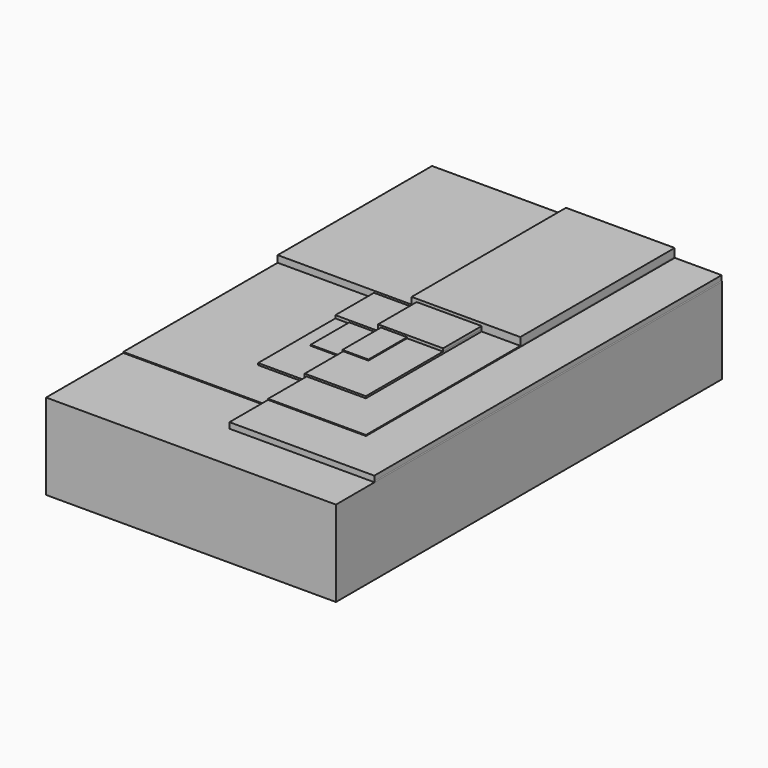
from build123d import *

# Parameters (mm, degrees)
F1_DEPTH = 254
F2_DEPTH = 228.6
F3_DEPTH = 203.2
F4_DEPTH = 177.8
F5_DEPTH = 152.4
F6_DEPTH = 127
F7_DEPTH = 101.6


with BuildPart() as f1:
    # F0 (on Front) → F1 (new body)
    with BuildSketch(Plane.XZ):
        Polygon((-76.438032, 25.036076), (-76.438032, -19.613271), (76.173723, -19.613271), (76.173723, 23.512076), (76.173723, 25.544076), (-0.200935, 25.544076), (-76.438032, 25.544076), align=None)
    extrude(amount=F1_DEPTH)


with BuildPart() as f2:
    # F0 (on Front) → F2 (new body)
    with BuildSketch(Plane.XZ):
        Polygon((-0.200935, 26.052076), (76.036163, 26.052076), (76.036163, 28.592076), (69.713205, 28.592076), (51.336631, 28.592076), (-0.200935, 28.592076), align=None)
        Polygon((-0.200935, 25.544076), (76.173723, 25.544076), (76.036163, 26.052076), (-0.200935, 26.052076), align=None)
    extrude(amount=F2_DEPTH)


with BuildPart() as f3:
    # F0 (on Front) → F3 (new body)
    with BuildSketch(Plane.XZ):
        Polygon((-76.438032, 26.052076), (-76.438032, 25.544076), (-0.200935, 25.544076), (-0.200935, 26.052076), (-25.752865, 26.052076), align=None)
        Polygon((-0.200935, 29.100076), (-0.200935, 28.592076), (51.336631, 28.592076), (51.336631, 29.100076), (30.95011, 29.100076), align=None)
    extrude(amount=F3_DEPTH)


with BuildPart() as f4:
    # F0 (on Front) → F4 (new body)
    with BuildSketch(Plane.XZ):
        Polygon((-25.752865, 26.052076), (-0.200935, 26.052076), (-0.200935, 28.592076), (-0.200935, 29.100076), (30.95011, 29.100076), (30.95011, 30.116076), (11.999259, 30.116076), (-1.216935, 30.116076), (-1.216935, 27.068076), (-18.436953, 27.068076), (-25.752865, 27.068076), align=None)
    extrude(amount=F4_DEPTH)


with BuildPart() as f5:
    # F0 (on Front) → F5 (new body)
    with BuildSketch(Plane.XZ):
        Polygon((-18.436953, 27.576076), (-18.436953, 27.068076), (-1.216935, 27.068076), (-1.216935, 30.116076), (11.999259, 30.116076), (11.999259, 30.624076), (-1.724935, 30.624076), (-1.724935, 27.576076), align=None)
    extrude(amount=F5_DEPTH)


with BuildPart() as f6:
    # F0 (on Front) → F6 (new body)
    with BuildSketch(Plane.XZ):
        Polygon((-25.752865, 28.592076), (-25.752865, 27.068076), (-18.436953, 27.068076), (-18.436953, 27.576076), (-1.724935, 27.576076), (-1.724935, 30.624076), (11.999259, 30.624076), (11.999259, 30.116076), (30.95011, 30.116076), (30.95011, 31.640076), (-3.248935, 31.640076), (-3.248935, 28.592076), align=None)
    extrude(amount=F6_DEPTH)


with BuildPart() as f7:
    # F0 (on Front) → F7 (new body)
    with BuildSketch(Plane.XZ):
        Polygon((-76.438032, 29.608076), (-76.438032, 26.052076), (-25.752865, 26.052076), (-25.752865, 27.068076), (-25.752865, 28.592076), (-3.248935, 28.592076), (-3.248935, 31.640076), (30.95011, 31.640076), (30.95011, 30.116076), (30.95011, 29.100076), (51.336631, 29.100076), (51.291214, 33.163823), (-5.921619, 33.163823), (-5.921619, 29.608076), align=None)
    extrude(amount=F7_DEPTH)


solid = Compound([f1.part, f2.part, f3.part, f4.part, f5.part, f6.part, f7.part])
